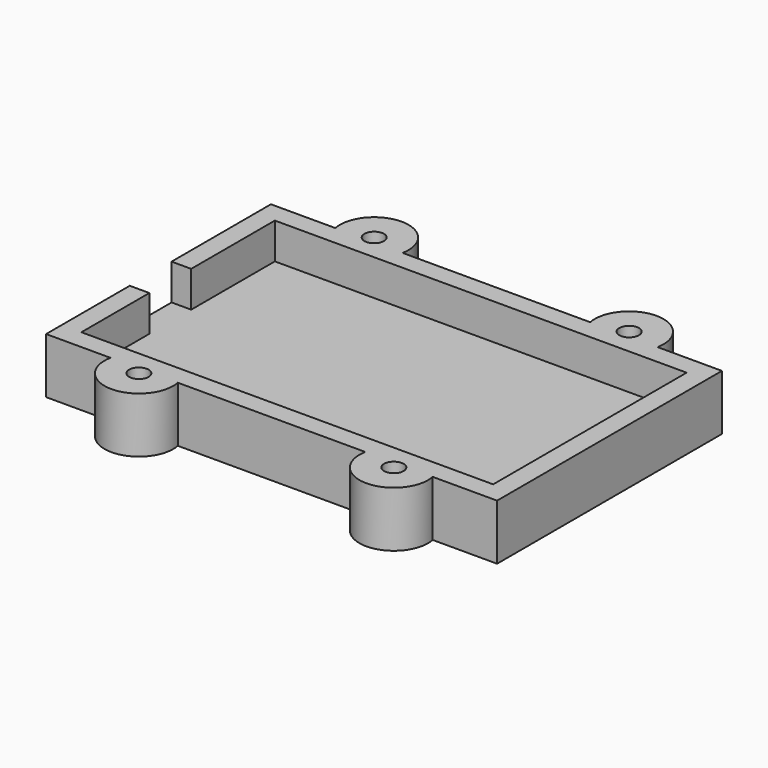
from build123d import *

# Parameters (mm, degrees)
BOX011_W                  = 63
BOX011_H                  = 37
BOX011_DEPTH              = 5.5
BOX010_W                  = 10
BOX010_H                  = 8
BOX010_DEPTH              = 5.5
CYLINDER018_R             = 3.25
CYLINDER018_DEPTH         = 3
CYLINDER019_R             = 1.5
CYLINDER019_DEPTH         = 8.5
CYLINDER020_R             = 5.25
CYLINDER020_DEPTH         = 8.5
CYLINDER016_R             = 3.25
CYLINDER016_DEPTH         = 3
CYLINDER015_R             = 1.5
CYLINDER015_DEPTH         = 8.5
CYLINDER017_R             = 5.25
CYLINDER017_DEPTH         = 8.5
CYLINDER014_R             = 3.25
CYLINDER014_DEPTH         = 3
CYLINDER013_R             = 1.5
CYLINDER013_DEPTH         = 8.5
CYLINDER012_R             = 5.25
CYLINDER012_DEPTH         = 8.5
CYLINDER023_R             = 3.25
CYLINDER023_DEPTH         = 3
CYLINDER022_R             = 1.5
CYLINDER022_DEPTH         = 8.5
CYLINDER021_R             = 5.25
CYLINDER021_DEPTH         = 8.5
CYLINDER025_R             = 3.25
CYLINDER025_DEPTH         = 3
CYLINDER024_R             = 1.5
CYLINDER024_DEPTH         = 8.5
CYLINDER027_R             = 3.25
CYLINDER027_DEPTH         = 3
CYLINDER026_R             = 1.5
CYLINDER026_DEPTH         = 8.5
CYLINDER028_R             = 3.25
CYLINDER028_DEPTH         = 3
CYLINDER029_R             = 1.5
CYLINDER029_DEPTH         = 8.5
CYLINDER031_R             = 3.25
CYLINDER031_DEPTH         = 3
CYLINDER030_R             = 1.5
CYLINDER030_DEPTH         = 8.5
BOX007_W                  = 63
BOX007_H                  = 37
BOX007_DEPTH              = 6
BOX008_W                  = 10
BOX008_H                  = 8
BOX008_DEPTH              = 6
BOX009_W                  = 69
BOX009_H                  = 43
BOX009_DEPTH              = 8.5
FUSION017_PLACEMENT_ANGLE = 180


with BuildPart() as cube010:
    # Box011 → Box011 (new body)
    with BuildSketch(Plane.XY):
        with Locations((31.5, 18.5)):
            Rectangle(BOX011_W, BOX011_H)
    extrude(amount=BOX011_DEPTH)


with BuildPart() as battery_model002:
    # Box010 → Box010 (new body)
    with BuildSketch(Plane(origin=(63, 16, 0), x_dir=(1, 0, 0), z_dir=(0, 0, 1))):
        with Locations((5, 4)):
            Rectangle(BOX010_W, BOX010_H)
    extrude(amount=BOX010_DEPTH)

    # Fusion016: union Cube010
    add(cube010.part)


with BuildPart() as battery_model002_1:
    # Fusion016 placement: moved
    add(battery_model002.part.moved(Location((3, 3, 3))))


with BuildPart() as nut_recess002:
    # Cylinder018 → Cylinder018 (new body)
    with BuildSketch(Plane(origin=(15, -1, 0), x_dir=(1, 0, 0), z_dir=(0, 0, 1))):
        Circle(CYLINDER018_R)
    extrude(amount=CYLINDER018_DEPTH)


with BuildPart() as base_bolt_assembly002:
    # Cylinder019 → Cylinder019 (new body)
    with BuildSketch(Plane(origin=(15, -1, 0), x_dir=(1, 0, 0), z_dir=(0, 0, 1))):
        Circle(CYLINDER019_R)
    extrude(amount=CYLINDER019_DEPTH)

    # Fusion007: union Nut Recess002
    add(nut_recess002.part)


with BuildPart() as obj1:
    # Cylinder020 → Cylinder020 (new body)
    with BuildSketch(Plane(origin=(15, -1, 0), x_dir=(1, 0, 0), z_dir=(0, 0, 1))):
        Circle(CYLINDER020_R)
    extrude(amount=CYLINDER020_DEPTH)

    # Cut005: cut Base Bolt Assembly002
    add(base_bolt_assembly002.part, mode=Mode.SUBTRACT)


with BuildPart() as obj1_1:
    # Cut005 placement: moved
    add(obj1.part.moved(Location((39, 45, 0))))


with BuildPart() as nut_recess001:
    # Cylinder016 → Cylinder016 (new body)
    with BuildSketch(Plane(origin=(15, -1, 0), x_dir=(1, 0, 0), z_dir=(0, 0, 1))):
        Circle(CYLINDER016_R)
    extrude(amount=CYLINDER016_DEPTH)


with BuildPart() as base_bolt_assembly001:
    # Cylinder015 → Cylinder015 (new body)
    with BuildSketch(Plane(origin=(15, -1, 0), x_dir=(1, 0, 0), z_dir=(0, 0, 1))):
        Circle(CYLINDER015_R)
    extrude(amount=CYLINDER015_DEPTH)

    # Fusion006: union Nut Recess001
    add(nut_recess001.part)


with BuildPart() as obj2:
    # Cylinder017 → Cylinder017 (new body)
    with BuildSketch(Plane(origin=(15, -1, 0), x_dir=(1, 0, 0), z_dir=(0, 0, 1))):
        Circle(CYLINDER017_R)
    extrude(amount=CYLINDER017_DEPTH)

    # Cut004: cut Base Bolt Assembly001
    add(base_bolt_assembly001.part, mode=Mode.SUBTRACT)


with BuildPart() as obj2_1:
    # Cut004 placement: moved
    add(obj2.part.moved(Location((39, 0, 0))))


with BuildPart() as nut_recess:
    # Cylinder014 → Cylinder014 (new body)
    with BuildSketch(Plane(origin=(15, -1, 0), x_dir=(1, 0, 0), z_dir=(0, 0, 1))):
        Circle(CYLINDER014_R)
    extrude(amount=CYLINDER014_DEPTH)


with BuildPart() as base_bolt_assembly:
    # Cylinder013 → Cylinder013 (new body)
    with BuildSketch(Plane(origin=(15, -1, 0), x_dir=(1, 0, 0), z_dir=(0, 0, 1))):
        Circle(CYLINDER013_R)
    extrude(amount=CYLINDER013_DEPTH)

    # Fusion005: union Nut Recess
    add(nut_recess.part)


with BuildPart() as obj3:
    # Cylinder012 → Cylinder012 (new body)
    with BuildSketch(Plane(origin=(15, -1, 0), x_dir=(1, 0, 0), z_dir=(0, 0, 1))):
        Circle(CYLINDER012_R)
    extrude(amount=CYLINDER012_DEPTH)

    # Cut009: cut Base Bolt Assembly
    add(base_bolt_assembly.part, mode=Mode.SUBTRACT)


with BuildPart() as nut_recess003:
    # Cylinder023 → Cylinder023 (new body)
    with BuildSketch(Plane(origin=(15, -1, 0), x_dir=(1, 0, 0), z_dir=(0, 0, 1))):
        Circle(CYLINDER023_R)
    extrude(amount=CYLINDER023_DEPTH)


with BuildPart() as base_bolt_assembly003:
    # Cylinder022 → Cylinder022 (new body)
    with BuildSketch(Plane(origin=(15, -1, 0), x_dir=(1, 0, 0), z_dir=(0, 0, 1))):
        Circle(CYLINDER022_R)
    extrude(amount=CYLINDER022_DEPTH)

    # Fusion008: union Nut Recess003
    add(nut_recess003.part)


with BuildPart() as base_bolt_assemblies_no_bat:
    # Cylinder021 → Cylinder021 (new body)
    with BuildSketch(Plane(origin=(15, -1, 0), x_dir=(1, 0, 0), z_dir=(0, 0, 1))):
        Circle(CYLINDER021_R)
    extrude(amount=CYLINDER021_DEPTH)

    # Cut006: cut Base Bolt Assembly003
    add(base_bolt_assembly003.part, mode=Mode.SUBTRACT)


with BuildPart() as base_bolt_assemblies_no_bat_1:
    # Cut006 placement: moved
    add(base_bolt_assemblies_no_bat.part.moved(Location((0, 45, 0))))

    # Fusion015: union obj1, obj2, obj3
    add(obj1_1.part)
    add(obj2_1.part)
    add(obj3.part)

    # Cut008: cut Battery Model002
    add(battery_model002_1.part, mode=Mode.SUBTRACT)


with BuildPart() as nut_recess004:
    # Cylinder025 → Cylinder025 (new body)
    with BuildSketch(Plane(origin=(15, -1, 0), x_dir=(1, 0, 0), z_dir=(0, 0, 1))):
        Circle(CYLINDER025_R)
    extrude(amount=CYLINDER025_DEPTH)


with BuildPart() as obj4:
    # Cylinder024 → Cylinder024 (new body)
    with BuildSketch(Plane(origin=(15, -1, 0), x_dir=(1, 0, 0), z_dir=(0, 0, 1))):
        Circle(CYLINDER024_R)
    extrude(amount=CYLINDER024_DEPTH)

    # Fusion009: union Nut Recess004
    add(nut_recess004.part)


with BuildPart() as nut_recess005:
    # Cylinder027 → Cylinder027 (new body)
    with BuildSketch(Plane(origin=(15, -1, 0), x_dir=(1, 0, 0), z_dir=(0, 0, 1))):
        Circle(CYLINDER027_R)
    extrude(amount=CYLINDER027_DEPTH)


with BuildPart() as obj5:
    # Cylinder026 → Cylinder026 (new body)
    with BuildSketch(Plane(origin=(15, -1, 0), x_dir=(1, 0, 0), z_dir=(0, 0, 1))):
        Circle(CYLINDER026_R)
    extrude(amount=CYLINDER026_DEPTH)

    # Fusion011: union Nut Recess005
    add(nut_recess005.part)


with BuildPart() as obj5_1:
    # Fusion011 placement: moved
    add(obj5.part.moved(Location((39, 0, 0))))


with BuildPart() as nut_recess006:
    # Cylinder028 → Cylinder028 (new body)
    with BuildSketch(Plane(origin=(15, -1, 0), x_dir=(1, 0, 0), z_dir=(0, 0, 1))):
        Circle(CYLINDER028_R)
    extrude(amount=CYLINDER028_DEPTH)


with BuildPart() as obj6:
    # Cylinder029 → Cylinder029 (new body)
    with BuildSketch(Plane(origin=(15, -1, 0), x_dir=(1, 0, 0), z_dir=(0, 0, 1))):
        Circle(CYLINDER029_R)
    extrude(amount=CYLINDER029_DEPTH)

    # Fusion012: union Nut Recess006
    add(nut_recess006.part)


with BuildPart() as obj6_1:
    # Fusion012 placement: moved
    add(obj6.part.moved(Location((39, 45, 0))))


with BuildPart() as nut_recess007:
    # Cylinder031 → Cylinder031 (new body)
    with BuildSketch(Plane(origin=(15, -1, 0), x_dir=(1, 0, 0), z_dir=(0, 0, 1))):
        Circle(CYLINDER031_R)
    extrude(amount=CYLINDER031_DEPTH)


with BuildPart() as base_bolt_remove_assembly:
    # Cylinder030 → Cylinder030 (new body)
    with BuildSketch(Plane(origin=(15, -1, 0), x_dir=(1, 0, 0), z_dir=(0, 0, 1))):
        Circle(CYLINDER030_R)
    extrude(amount=CYLINDER030_DEPTH)

    # Fusion013: union Nut Recess007
    add(nut_recess007.part)


with BuildPart() as base_bolt_remove_assembly_1:
    # Fusion013 placement: moved
    add(base_bolt_remove_assembly.part.moved(Location((0, 45, 0))))

    # Fusion014: union obj4, obj5, obj6
    add(obj4.part)
    add(obj5_1.part)
    add(obj6_1.part)


with BuildPart() as cube006:
    # Box007 → Box007 (new body)
    with BuildSketch(Plane.XY):
        with Locations((31.5, 18.5)):
            Rectangle(BOX007_W, BOX007_H)
    extrude(amount=BOX007_DEPTH)


with BuildPart() as battery_model:
    # Box008 → Box008 (new body)
    with BuildSketch(Plane(origin=(63, 16, 0), x_dir=(1, 0, 0), z_dir=(0, 0, 1))):
        with Locations((5, 4)):
            Rectangle(BOX008_W, BOX008_H)
    extrude(amount=BOX008_DEPTH)

    # Fusion010: union Cube006
    add(cube006.part)


with BuildPart() as battery_model_1:
    # Fusion010 placement: moved
    add(battery_model.part.moved(Location((3, 3, 3))))


with BuildPart() as battery_backside:
    # Box009 → Box009 (new body)
    with BuildSketch(Plane.XY):
        with Locations((34.5, 21.5)):
            Rectangle(BOX009_W, BOX009_H)
    extrude(amount=BOX009_DEPTH)

    # Cut010: cut Battery Model
    add(battery_model_1.part, mode=Mode.SUBTRACT)

    # Cut007: cut Base Bolt Remove Assembly
    add(base_bolt_remove_assembly_1.part, mode=Mode.SUBTRACT)

    # Fusion017: union Base Bolt Assemblies - no Bat
    add(base_bolt_assemblies_no_bat_1.part)


with BuildPart() as battery_backside_1:
    # Fusion017 placement: moved
    add(battery_backside.part.moved(Location((86.5, 53, 0))).rotate(Axis((86.5, 53, 0), (0, 0, 1)), FUSION017_PLACEMENT_ANGLE))


solid = battery_backside_1.part
